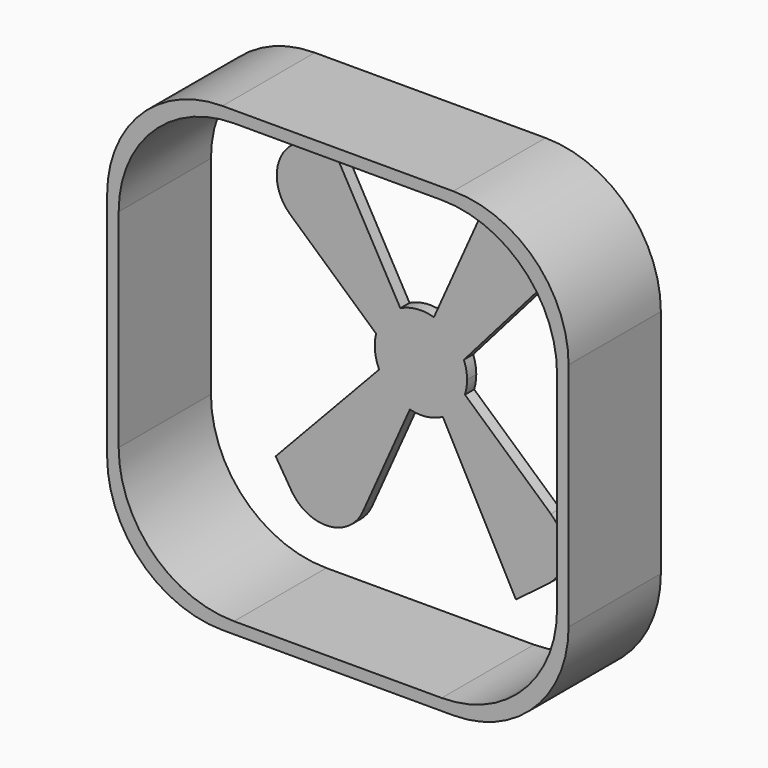
from build123d import *

# Parameters (mm, degrees)
F1_DEPTH = 25.4
F3_DEPTH = 2.54


with BuildPart() as f1:
    # F0 (on Front) → F1 (new body)
    with BuildSketch(Plane.XZ):
        with BuildLine():
            ThreePointArc((50.8, 25.4), (43.360512, 43.360512), (25.4, 50.8))
            Line((25.4, 50.8), (-25.4, 50.8))
            ThreePointArc((-25.4, 50.8), (-43.360512, 43.360512), (-50.8, 25.4))
            Line((-50.8, 25.4), (-50.8, -25.4))
            ThreePointArc((-50.8, -25.4), (-43.360512, -43.360512), (-25.4, -50.8))
            Line((-25.4, -50.8), (25.4, -50.8))
            ThreePointArc((25.4, -50.8), (43.360512, -43.360512), (50.8, -25.4))
            Line((50.8, -25.4), (50.8, 25.4))
        make_face()
        with BuildLine():
            ThreePointArc((-48.26, 22.86), (-40.820512, 40.820512), (-22.86, 48.26))
            Line((-22.86, 48.26), (22.86, 48.26))
            ThreePointArc((22.86, 48.26), (40.820512, 40.820512), (48.26, 22.86))
            Line((48.26, 22.86), (48.26, -22.86))
            ThreePointArc((48.26, -22.86), (40.820512, -40.820512), (22.86, -48.26))
            Line((22.86, -48.26), (-22.86, -48.26))
            ThreePointArc((-22.86, -48.26), (-40.820512, -40.820512), (-48.26, -22.86))
            Line((-48.26, -22.86), (-48.26, 22.86))
        make_face(mode=Mode.SUBTRACT)
    extrude(amount=F1_DEPTH)


with BuildPart() as f3:
    # F2 (on Front) → F3 (new body)
    with BuildSketch(Plane.XZ):
        with BuildLine():
            ThreePointArc((9.691227, -3.050529), (10.042123, -1.543168), (10.16, 0))
            ThreePointArc((10.16, 0), (9.988178, 1.86062), (9.478523, 3.658307))
            ThreePointArc((9.478523, 3.658307), (6.880494, 7.475587), (2.861291, 9.748775))
            ThreePointArc((2.861291, 9.748775), (-0.898812, 10.120165), (-4.534608, 9.091916))
            ThreePointArc((-4.534608, 9.091916), (-7.935627, 6.344401), (-9.867092, 2.422004))
            ThreePointArc((-9.867092, 2.422004), (-10.11004, -1.006323), (-9.196063, -4.319493))
            ThreePointArc((-9.196063, -4.319493), (-6.444061, -7.854914), (-2.438979, -9.862909))
            ThreePointArc((-2.438979, -9.862909), (1.287689, -10.078068), (4.840533, -8.932796))
            ThreePointArc((4.840533, -8.932796), (7.838576, -6.463925), (9.691227, -3.050529))
        make_face()
        with BuildLine():
            ThreePointArc((2.861291, 9.748775), (6.880494, 7.475587), (9.478523, 3.658307))
            Line((9.478523, 3.658307), (33.758552, 31.453673))
            Line((33.758552, 31.453673), (26.474262, 36.585787))
            ThreePointArc((26.474262, 36.585787), (18.987079, 37.891517), (13.221226, 32.939975))
            Line((13.221226, 32.939975), (2.861291, 9.748775))
        make_face()
        with BuildLine():
            Line((28.604536, -20.004783), (9.691227, -3.050529))
            ThreePointArc((9.691227, -3.050529), (7.838576, -6.463925), (4.840533, -8.932796))
            Line((4.840533, -8.932796), (20.910398, -39.104288))
            Line((20.910398, -39.104288), (28.023838, -33.73787))
            ThreePointArc((28.023838, -33.73787), (31.556148, -27.008412), (28.604536, -20.004783))
        make_face()
        with BuildLine():
            ThreePointArc((-9.867092, 2.422004), (-7.935627, 6.344401), (-4.534608, 9.091916))
            Line((-4.534608, 9.091916), (-21.086262, 38.475763))
            Line((-21.086262, 38.475763), (-28.199703, 33.109346))
            ThreePointArc((-28.199703, 33.109346), (-31.732013, 26.379887), (-28.780401, 19.376258))
            Line((-28.780401, 19.376258), (-9.867092, 2.422004))
        make_face()
        with BuildLine():
            Line((-12.798914, -33.054109), (-2.438979, -9.862909))
            ThreePointArc((-2.438979, -9.862909), (-6.444061, -7.854914), (-9.196063, -4.319493))
            Line((-9.196063, -4.319493), (-31.979147, -28.536969))
            Line((-31.979147, -28.536969), (-28.463092, -34.14901))
            ThreePointArc((-28.463092, -34.14901), (-20.302514, -38.301084), (-12.798914, -33.054109))
        make_face()
    extrude(amount=F3_DEPTH)


solid = Compound([f1.part, f3.part])
